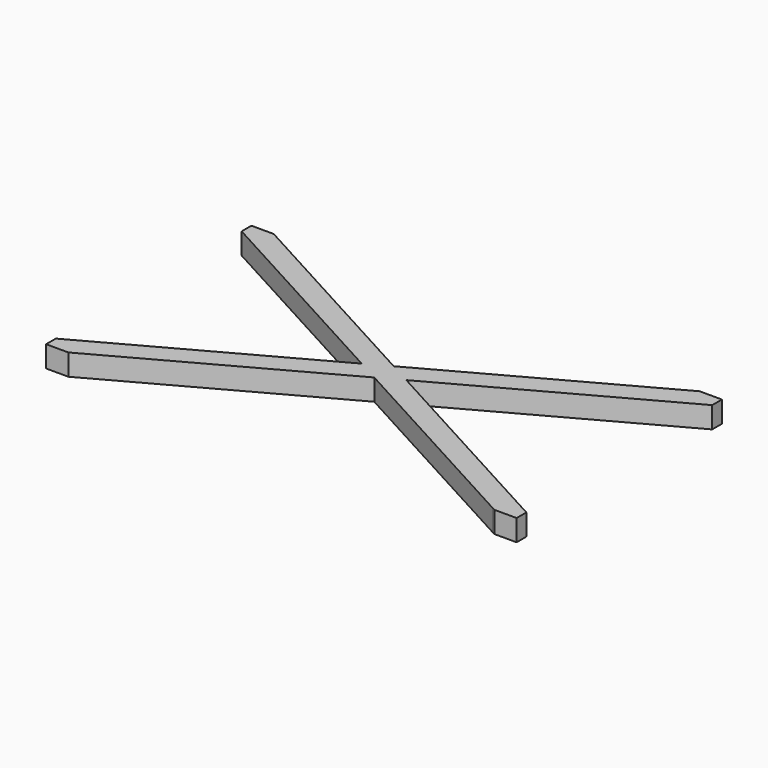
from build123d import *

# Parameters (mm, degrees)
F1_DEPTH = 3.175


with BuildPart() as f1:
    # F0 (on Top) → F1 (new body)
    with BuildSketch(Plane.XY):
        Polygon((-2.19725e-05, 1.8082891047), (3.3151988725, -1.31744e-05), (34.9249756667, 17.2416605767), (34.9250459451, 19.05), (31.6098229194, 19.05), (31.1458046464, 18.7968994568), align=None)
        Polygon((-34.9250459451, -19.05), (-31.6098262806, -19.0500018334), (-2.29725e-05, -1.8083136201), (-3.3152438176, -1.1341e-05), (-34.925044945, -17.2416983649), align=None)
        Polygon((-34.9250449451, 17.2416983649), (-3.3152438176, -1.1341e-05), (-2.19725e-05, 1.8082891047), (-31.6098252806, 19.05), (-34.9250449451, 19.05), align=None)
        Polygon((3.3151988725, -1.31744e-05), (-2.29725e-05, -1.8083136201), (31.145784716, -18.7969359957), (31.609802849, -19.0500367955), (34.9250258747, -19.0500386289), (34.9249550549, -17.2416983648), align=None)
        Polygon((-3.3152438176, -1.1341e-05), (-2.29725e-05, -1.8083136201), (3.3151988725, -1.31744e-05), (-2.19725e-05, 1.8082891047), align=None)
    extrude(amount=F1_DEPTH)


solid = f1.part
